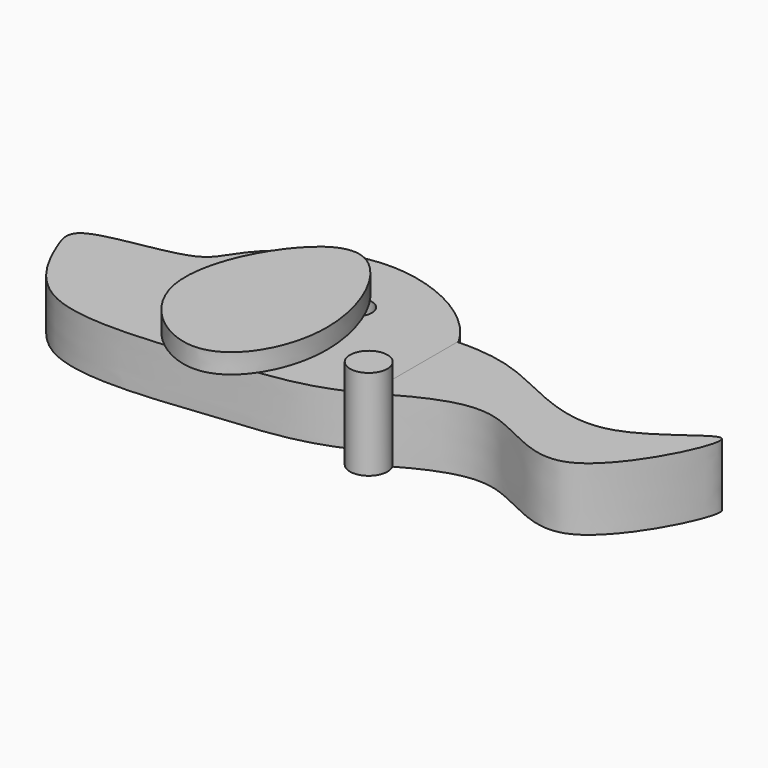
from build123d import *

# Parameters (mm, degrees)
F1_DEPTH  = 16
F2_R      = 4.1852221239
F3_DEPTH  = 25
F5_DEPTH  = 5
F6_R      = 4.7625
F7_DEPTH  = 2.5
F8_R      = 4.7625
F9_DEPTH  = 23
F10_R     = 4.7625
F11_DEPTH = 25
F12_SCALE = 0.8
F13_SCALE = 0.8
F15_DEPTH = 16


with BuildPart() as f1:
    # F0 (on Top) → F1 (new body)
    with BuildSketch(Plane.XY):
        with BuildLine():
            add(Edge.make_bspline(
                [(0, 35.7491821051), (-7.8787554073, 49.2703223238), (-42.5739645717, 65.4352226946), (-72.888007785, 40.8106264437), (-76.3479065544, 27.4777319468), (-113.9553286254, 25.8139044253), (-109.4676597362, 12.1477101503), (-95.8337539132, -16.9247996265), (-39.297445265, -8.9281318341), (-14.1925693537, -7.8035870001), (0, 0)],
                knots=[0, 0, 0, 0, 0.1570259492, 0.2891687633, 0.3714260973, 0.4979968364, 0.5668311438, 0.6862519806, 0.8498928105, 1, 1, 1, 1], degree=3))
            Line((0, 0), (0, 35.7491821051))
        make_face()
    extrude(amount=F1_DEPTH)

    # F2 (on Top) → F3 (cut)
    with BuildSketch(Plane.XY):
        with Locations((-60.7827566564, 35.8562320471)):
            Circle(F2_R)
    extrude(amount=F3_DEPTH, mode=Mode.SUBTRACT)

    # F10 (on face) → F11 (cut)
    with BuildSketch(Plane.XY.offset(16)):
        with Locations((-31.0744717717, 34.1380164027)):
            Circle(F10_R)
    extrude(amount=-F11_DEPTH, mode=Mode.SUBTRACT)


with BuildPart() as f5:
    # F4 (on face) → F5 (new body)
    with BuildSketch(Plane.XY.offset(16)):
        with BuildLine():
            add(Edge.make_bspline(
                [(-40.1809364557, 36.0670983791), (-47.3441068316, 30.9620838474), (-62.8631682684, 3.1567539514), (-30.32434424, -22.3389161466), (-12.6593458515, 7.3758134615), (-25.9620429962, 38.3322445269), (-35.9955992439, 39.0498847943), (-40.1809364557, 36.0670983791)],
                knots=[0, 0, 0, 0, 0.2336222189, 0.4435086005, 0.643330602, 0.8634979046, 1, 1, 1, 1], degree=3))
        make_face()
    extrude(amount=F5_DEPTH)

    # F6 (on face) → F7 (cut)
    with BuildSketch(Plane(origin=(0, 0, 16), x_dir=(1, 0, 0), z_dir=(0, 0, -1))):
        with Locations((-34.4229824841, -28.0399303883)):
            Circle(F6_R)
    extrude(amount=-F7_DEPTH, mode=Mode.SUBTRACT)


with BuildPart() as f9:
    # F8 (on Top) → F9 (new body)
    with BuildSketch(Plane.XY):
        Circle(F8_R)
    extrude(amount=F9_DEPTH)


with BuildPart() as f12_1:
    # F12: copy of F1
    add(f1.part.scale(F12_SCALE).moved(Location((0, 0, 3.2))))


with BuildPart() as f1_1:
    # F13: moved
    add(f1.part.scale(F13_SCALE).moved(Location((0, 0, 3.2))))


with BuildPart() as f15:
    # F14 (on Top) → F15 (new body)
    with BuildSketch(Plane.XY):
        with BuildLine():
            Line((0, 28.1325038522), (0, 0))
            add(Edge.make_bspline(
                [(0, 0), (8.9397907378, 5.0485939575), (24.9001765769, 14.1732918185), (50.7785960402, -11.3119058084), (76.5024276246, 42.495480332), (45.4802791855, 8.5861515621), (18.0273835318, 27.3705323254), (5.5624095452, 28.2828330526), (0, 28.1325038522)],
                knots=[0, 0, 0, 0, 0.1697280888, 0.336089502, 0.5217895186, 0.6782722353, 0.8611757982, 1, 1, 1, 1], degree=3))
        make_face()
    extrude(amount=F15_DEPTH)


solid = Compound([f5.part, f9.part, f1_1.part, f15.part])
